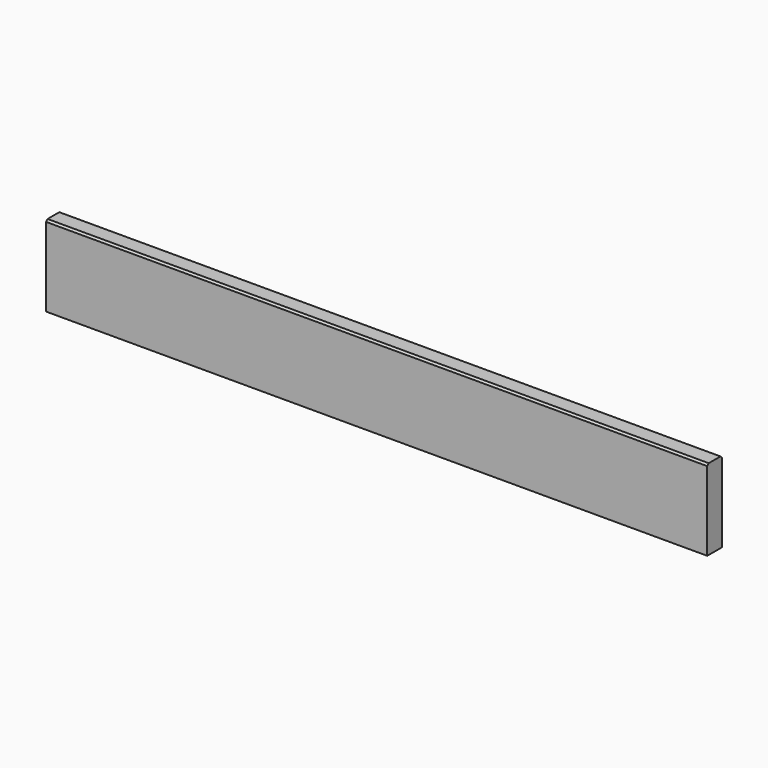
from build123d import *

# Parameters (mm, degrees)
F0_W     = 1800
F0_H     = 220
F1_DEPTH = 50
F2_SIZE  = 5


with BuildPart() as f1:
    # F0 (on Front) → F1 (new body)
    with BuildSketch(Plane.XZ):
        with Locations((900, 110)):
            Rectangle(F0_W, F0_H)
    extrude(amount=F1_DEPTH)

    # F2
    f2_edges = [f1.edges().sort_by_distance(p)[0] for p in [
        (900, -50, 220),
        (900, 0, 220),
    ]]
    chamfer(f2_edges, length=F2_SIZE)


solid = f1.part
